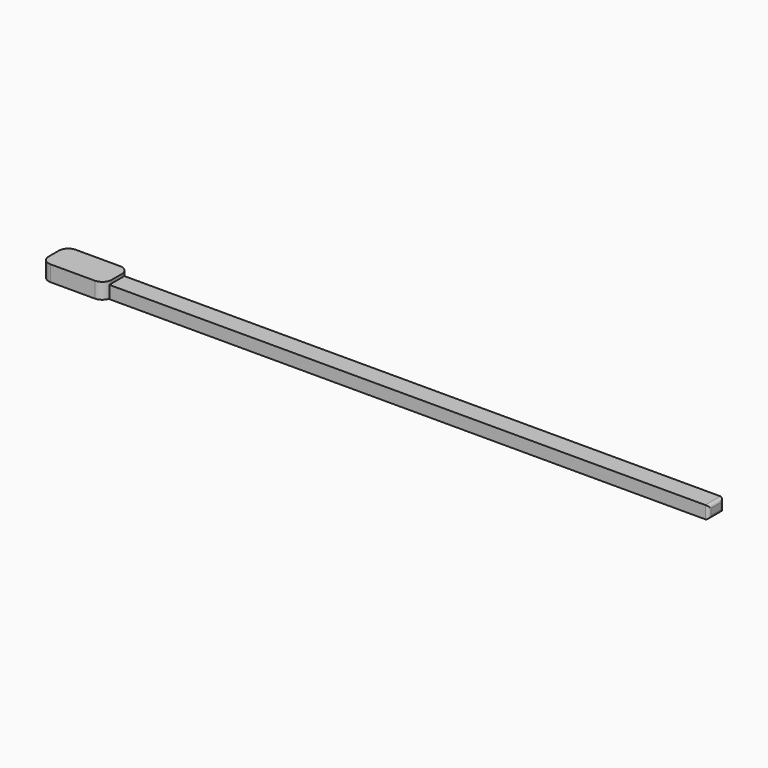
from build123d import *

# Parameters (mm, degrees)
BOX_W        = 190
BOX_H        = 6
BOX_DEPTH    = 4
FILLET001_R  = 1
BOX001_W     = 20
BOX001_H     = 10
BOX001_DEPTH = 5
FILLET_R     = 3


with BuildPart() as handle_fillet:
    # Box → Box (new body)
    with BuildSketch(Plane(origin=(0, -3, 0), x_dir=(1, 0, 0), z_dir=(0, 0, 1))):
        with Locations((95, 3)):
            Rectangle(BOX_W, BOX_H)
    extrude(amount=BOX_DEPTH)

    # Fillet001
    fillet001_edges = [handle_fillet.edges().sort_by_distance(p)[0] for p in [
        (190, -3, 2),
        (190, 0, 4),
        (190, 3, 2),
        (190, 0, 0),
    ]]
    fillet(fillet001_edges, radius=FILLET001_R)


with BuildPart() as spade:
    # Box001 → Box001 (new body)
    with BuildSketch(Plane(origin=(-20, -5, 0), x_dir=(1, 0, 0), z_dir=(0, 0, 1))):
        with Locations((10, 5)):
            Rectangle(BOX001_W, BOX001_H)
    extrude(amount=BOX001_DEPTH)

    # Fillet
    fillet_edges = [spade.edges().sort_by_distance(p)[0] for p in [
        (-20, -5, 2.5),
        (-20, 5, 2.5),
        (0, -5, 2.5),
        (0, 5, 2.5),
    ]]
    fillet(fillet_edges, radius=FILLET_R)

    # Fusion: union handle fillet
    add(handle_fillet.part)


solid = spade.part
